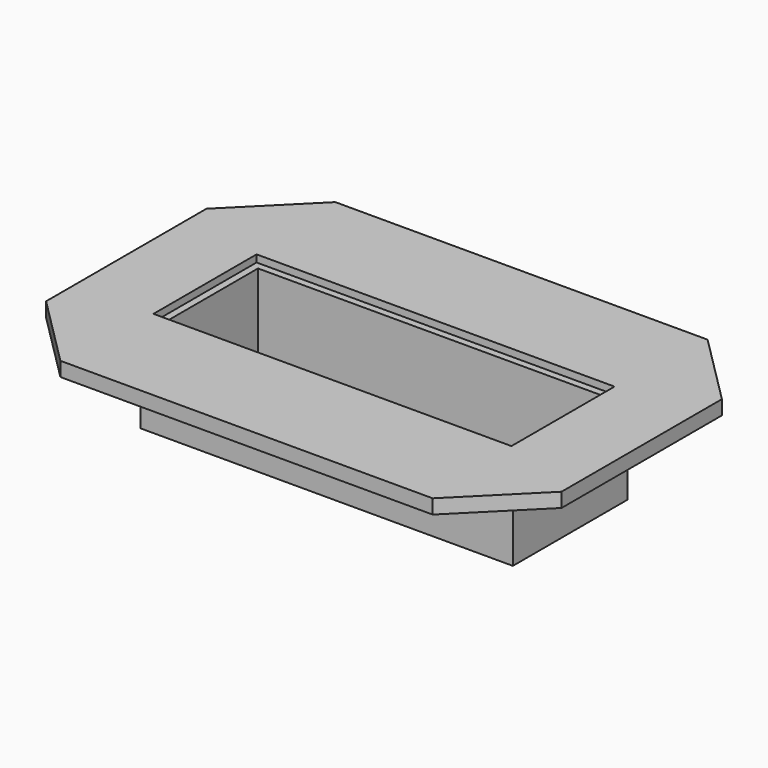
from build123d import *

# Parameters (mm, degrees)
F0_W      = 914.4
F0_H      = 609.6
F1_DEPTH  = 25.4
F2_SIZE   = 127
F3_W      = 609.6
F3_H      = 203.2
F4_DEPTH  = 25.4
F5_W      = 660.4
F5_H      = 254
F5_W_2    = 609.6
F5_H_2    = 203.2
F6_DEPTH  = 127
F7_W      = 660.4
F7_H      = 254
F8_DEPTH  = 25.4
F9_W      = 635
F9_H      = 228.6
F10_DEPTH = 12.7


with BuildPart() as f1:
    # F0 (on Top) → F1 (new body)
    with BuildSketch(Plane.XY):
        Rectangle(F0_W, F0_H)
    extrude(amount=F1_DEPTH)

    # F2
    f2_edges = [f1.edges().sort_by_distance(p)[0] for p in [
        (-457.2, -304.8, 12.7),
        (457.2, -304.8, 12.7),
        (457.2, 304.8, 12.7),
        (-457.2, 304.8, 12.7),
    ]]
    chamfer(f2_edges, length=F2_SIZE)

    # F3 (on face) → F4 (cut, through all)
    with BuildSketch(Plane.XY.offset(25.4)):
        Rectangle(F3_W, F3_H)
    extrude(amount=-F4_DEPTH, mode=Mode.SUBTRACT)

    # F5 (on face) → F6 (join)
    with BuildSketch(Plane(origin=(0, 0, 0), x_dir=(1, 0, 0), z_dir=(0, 0, -1))):
        Rectangle(F5_W, F5_H)
        Rectangle(F5_W_2, F5_H_2, mode=Mode.SUBTRACT)
    extrude(amount=F6_DEPTH)

    # F7 (on face) → F8 (join)
    with BuildSketch(Plane(origin=(0, 0, -127), x_dir=(1, 0, 0), z_dir=(0, 0, -1))):
        Rectangle(F7_W, F7_H)
    extrude(amount=F8_DEPTH)

    # F9 (on face) → F10 (cut)
    with BuildSketch(Plane.XY.offset(25.4)):
        Rectangle(F9_W, F9_H)
    extrude(amount=-F10_DEPTH, mode=Mode.SUBTRACT)


solid = f1.part
